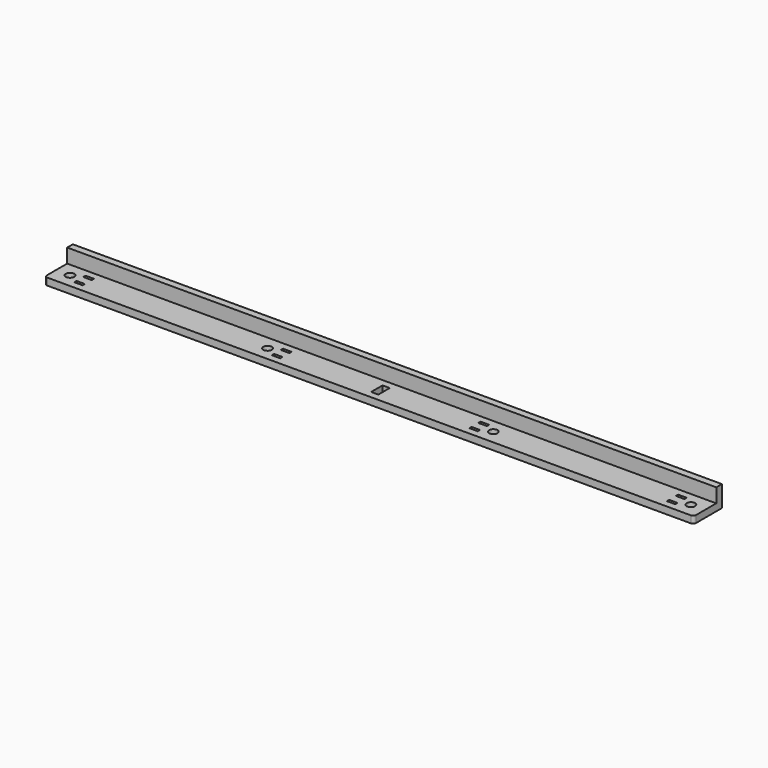
from build123d import *

# Parameters (mm, degrees)
F0_W     = 6
F0_H     = 2
F0_R     = 3
F0_W_2   = 5.1
F0_H_2   = 10.1
F1_DEPTH = 5
F0_W_3   = 460
F0_H_3   = 5
F2_DEPTH = 15


with BuildPart() as f1:
    # F0 (on Top) → F1 (new body)
    with BuildSketch(Plane.XY):
        with BuildLine():
            ThreePointArc((-80, -8), (-79.414214, -9.414214), (-78, -10))
            Line((-78, -10), (378, -10))
            ThreePointArc((378, -10), (379.414214, -9.414214), (380, -8))
            Line((380, -8), (380, 10))
            Line((380, 10), (-80, 10))
            Line((-80, 10), (-80, -8))
        make_face()
        with Locations((-60, -4)):
            Rectangle(F0_W, F0_H, mode=Mode.SUBTRACT)
        with Locations((80, -4)):
            Rectangle(F0_W, F0_H, mode=Mode.SUBTRACT)
        with Locations((-70, 0)):
            Circle(F0_R, mode=Mode.SUBTRACT)
        with Locations((70, 0)):
            Circle(F0_R, mode=Mode.SUBTRACT)
        with Locations((220, -4)):
            Rectangle(F0_W, F0_H, mode=Mode.SUBTRACT)
        with Locations((360, -4)):
            Rectangle(F0_W, F0_H, mode=Mode.SUBTRACT)
        with Locations((150, 0)):
            Rectangle(F0_W_2, F0_H_2, mode=Mode.SUBTRACT)
        with Locations((230, 0)):
            Circle(F0_R, mode=Mode.SUBTRACT)
        with Locations((370, 0)):
            Circle(F0_R, mode=Mode.SUBTRACT)
        with Locations((-60, 4)):
            Rectangle(F0_W, F0_H, mode=Mode.SUBTRACT)
        with Locations((80, 4)):
            Rectangle(F0_W, F0_H, mode=Mode.SUBTRACT)
        with Locations((220, 4)):
            Rectangle(F0_W, F0_H, mode=Mode.SUBTRACT)
        with Locations((360, 4)):
            Rectangle(F0_W, F0_H, mode=Mode.SUBTRACT)
    extrude(amount=F1_DEPTH)

    # F0 (on Top) → F2 (join)
    with BuildSketch(Plane.XY):
        with Locations((150, 12.5)):
            Rectangle(F0_W_3, F0_H_3)
    extrude(amount=F2_DEPTH)


solid = f1.part
